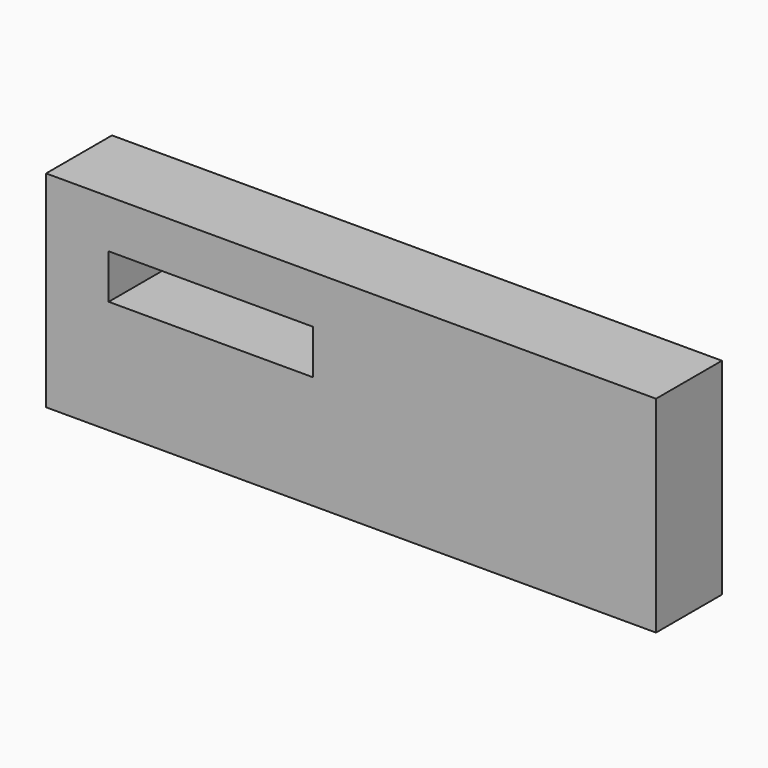
from build123d import *

# Parameters (mm, degrees)
F0_W     = 63.008573
F0_H     = 13.715997
F0_W_2   = 105.548358
F0_H_2   = 63.5
F1_DEPTH = 25.4


with BuildPart() as f1:
    # F0 (on Front) → F1 (new body)
    with BuildSketch(Plane.XZ):
        Polygon((-94.402148, 63.5), (-94.402148, 0), (-75.095862, 0), (-56.045862, 0), (-11.852148, 0), (-11.852148, 63.5), align=None)
        with Locations((-43.591575, 41.780356)):
            Rectangle(F0_W, F0_H, mode=Mode.SUBTRACT)
        with Locations((40.922031, 31.75)):
            Rectangle(F0_W_2, F0_H_2)
    extrude(amount=F1_DEPTH)


solid = f1.part
